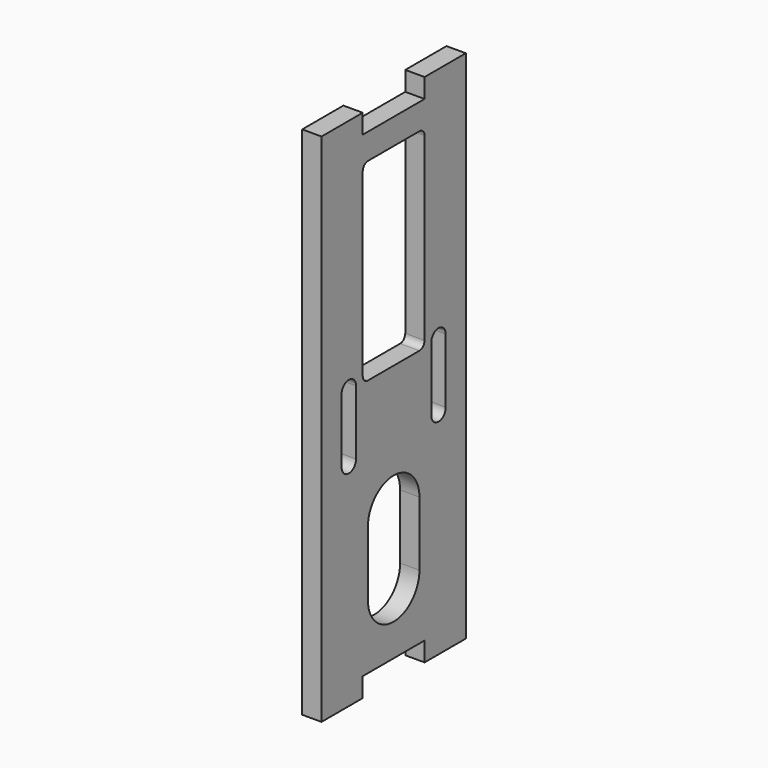
from build123d import *

# Parameters (mm, degrees)
F0_W     = 12
F0_H     = 30
F0_W_2   = 8
F0_H_2   = 3
F1_DEPTH = 3
F2_R     = 1


with BuildPart() as f1:
    # F0 (on Right) → F1 (new body)
    with BuildSketch(Plane.YZ):
        Polygon((14, -37), (14, 37), (6, 37), (-6, 37), (-14, 37), (-14, -37), (-6, -37), (6, -37), align=None)
        with BuildLine():
            Line((-10.1, -6.8), (-10.1, 3.2))
            ThreePointArc((-10.1, 3.2), (-8.7, 4.6), (-7.3, 3.2))
            Line((-7.3, 3.2), (-7.3, -6.8))
            ThreePointArc((-7.3, -6.8), (-8.7, -8.2), (-10.1, -6.8))
        make_face(mode=Mode.SUBTRACT)
        with BuildLine():
            ThreePointArc((-5, -17), (0, -12), (5, -17))
            Line((5, -17), (5, -27))
            ThreePointArc((5, -27), (0, -32), (-5, -27))
            Line((-5, -27), (-5, -17))
        make_face(mode=Mode.SUBTRACT)
        with BuildLine():
            ThreePointArc((7.3, 3.2), (8.7, 4.6), (10.1, 3.2))
            Line((10.1, 3.2), (10.1, -6.8))
            ThreePointArc((10.1, -6.8), (8.7, -8.2), (7.3, -6.8))
            Line((7.3, -6.8), (7.3, 3.2))
        make_face(mode=Mode.SUBTRACT)
        with Locations((0, 18)):
            Rectangle(F0_W, F0_H, mode=Mode.SUBTRACT)
        with Locations((10, 38.5)):
            Rectangle(F0_W_2, F0_H_2)
        with Locations((10, -38.5)):
            Rectangle(F0_W_2, F0_H_2)
        with Locations((-10, 38.5)):
            Rectangle(F0_W_2, F0_H_2)
        with Locations((-10, -38.5)):
            Rectangle(F0_W_2, F0_H_2)
    extrude(amount=F1_DEPTH)

    # F2
    f2_edges = [f1.edges().sort_by_distance(p)[0] for p in [
        (1.5, 6, 33),
        (1.5, -6, 33),
        (1.5, -6, 3),
        (1.5, 6, 3),
    ]]
    fillet(f2_edges, radius=F2_R)


solid = f1.part
